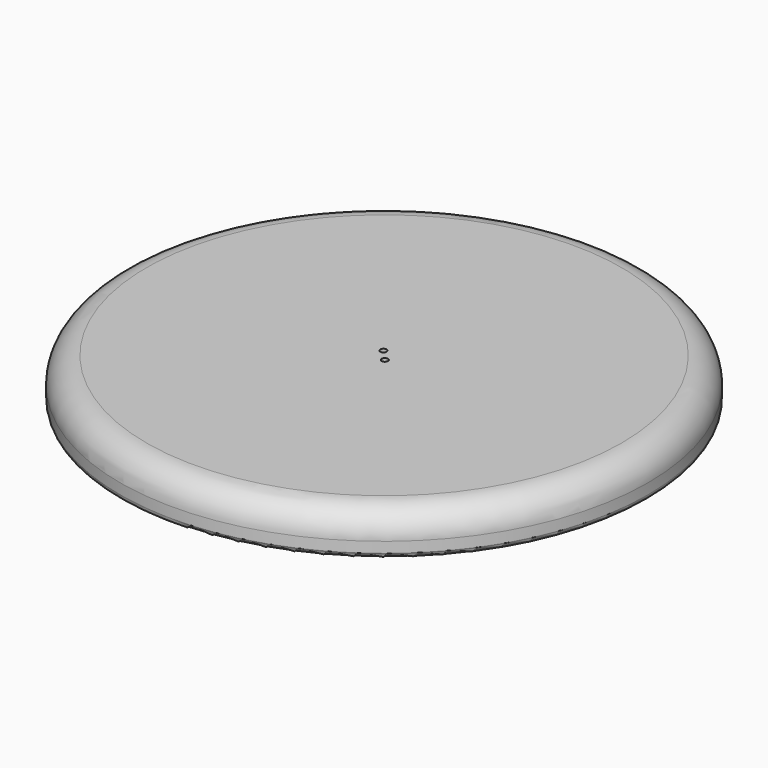
from build123d import *

# Parameters (mm, degrees)
F0_R     = 50
F0_R_2   = 0.6
F1_DEPTH = 8
F2_R     = 5
F3_R     = 1
F4_R     = 46.5
F4_R_2   = 45.5
F5_DEPTH = 4


with BuildPart() as f1:
    # F0 (on Top) → F1 (new body)
    with BuildSketch(Plane.XY):
        Circle(F0_R)
        with Locations((1.008559, -1.090059)):
            Circle(F0_R_2, mode=Mode.SUBTRACT)
        with Locations((-1.015935, 1.123858)):
            Circle(F0_R_2, mode=Mode.SUBTRACT)
    extrude(amount=F1_DEPTH)

    # F2
    f2_edges = [f1.edges().sort_by_distance(p)[0] for p in [
        (-50, 0, 8),
    ]]
    fillet(f2_edges, radius=F2_R)

    # F3
    f3_edges = [f1.edges().sort_by_distance(p)[0] for p in [
        (-50, 0, 0),
    ]]
    fillet(f3_edges, radius=F3_R)

    # F4 (on face) → F5 (cut)
    with BuildSketch(Plane(origin=(0, 0, 0), x_dir=(1, 0, 0), z_dir=(0, 0, -1))):
        Circle(F4_R)
        Circle(F4_R_2, mode=Mode.SUBTRACT)
    extrude(amount=-F5_DEPTH, mode=Mode.SUBTRACT)


solid = f1.part
